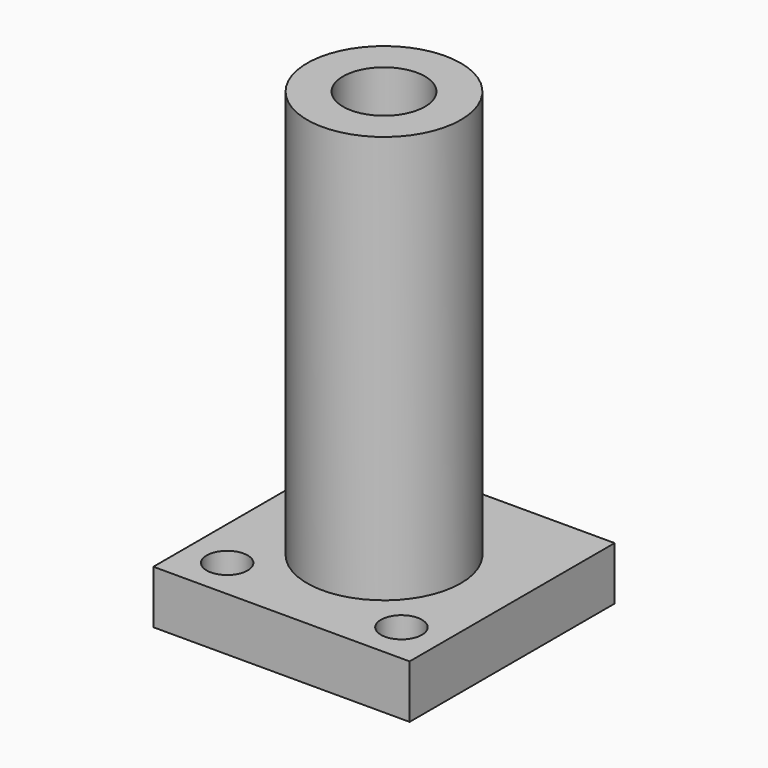
from build123d import *

# Parameters (mm, degrees)
CYLINDER027_R     = 2
CYLINDER027_DEPTH = 10
CYLINDER025_R     = 2
CYLINDER025_DEPTH = 10
CYLINDER024_R     = 2
CYLINDER024_DEPTH = 10
CYLINDER023_R     = 4
CYLINDER023_DEPTH = 60
CYLINDER028_R     = 7.5
CYLINDER028_DEPTH = 40
BOX005_W          = 25
BOX005_H          = 25
BOX005_DEPTH      = 5.2


with BuildPart() as cylinder027:
    # Cylinder027 → Cylinder027 (new body)
    with BuildSketch(Plane(origin=(21, 4, -2), x_dir=(1, 0, 0), z_dir=(0, 0, 1))):
        Circle(CYLINDER027_R)
    extrude(amount=CYLINDER027_DEPTH)


with BuildPart() as cylinder025:
    # Cylinder025 → Cylinder025 (new body)
    with BuildSketch(Plane(origin=(4, 21, -2), x_dir=(1, 0, 0), z_dir=(0, 0, 1))):
        Circle(CYLINDER025_R)
    extrude(amount=CYLINDER025_DEPTH)


with BuildPart() as cylinder024:
    # Cylinder024 → Cylinder024 (new body)
    with BuildSketch(Plane(origin=(4, 4, -2), x_dir=(1, 0, 0), z_dir=(0, 0, 1))):
        Circle(CYLINDER024_R)
    extrude(amount=CYLINDER024_DEPTH)


with BuildPart() as cylinder023:
    # Cylinder023 → Cylinder023 (new body)
    with BuildSketch(Plane(origin=(12.5, 12.5, -7), x_dir=(1, 0, 0), z_dir=(0, 0, 1))):
        Circle(CYLINDER023_R)
    extrude(amount=CYLINDER023_DEPTH)


with BuildPart() as cylinder028:
    # Cylinder028 → Cylinder028 (new body)
    with BuildSketch(Plane(origin=(12.5, 12.5, 5), x_dir=(1, 0, 0), z_dir=(0, 0, 1))):
        Circle(CYLINDER028_R)
    extrude(amount=CYLINDER028_DEPTH)


with BuildPart() as cut026:
    # Box005 → Box005 (new body)
    with BuildSketch(Plane.XY):
        with Locations((12.5, 12.5)):
            Rectangle(BOX005_W, BOX005_H)
    extrude(amount=BOX005_DEPTH)

    # Fusion006: union Cylinder028
    add(cylinder028.part)

    # Cut027: cut Cylinder023
    add(cylinder023.part, mode=Mode.SUBTRACT)

    # Cut028: cut Cylinder024
    add(cylinder024.part, mode=Mode.SUBTRACT)

    # Cut025: cut Cylinder025
    add(cylinder025.part, mode=Mode.SUBTRACT)

    # Cut026: cut Cylinder027
    add(cylinder027.part, mode=Mode.SUBTRACT)


solid = cut026.part
